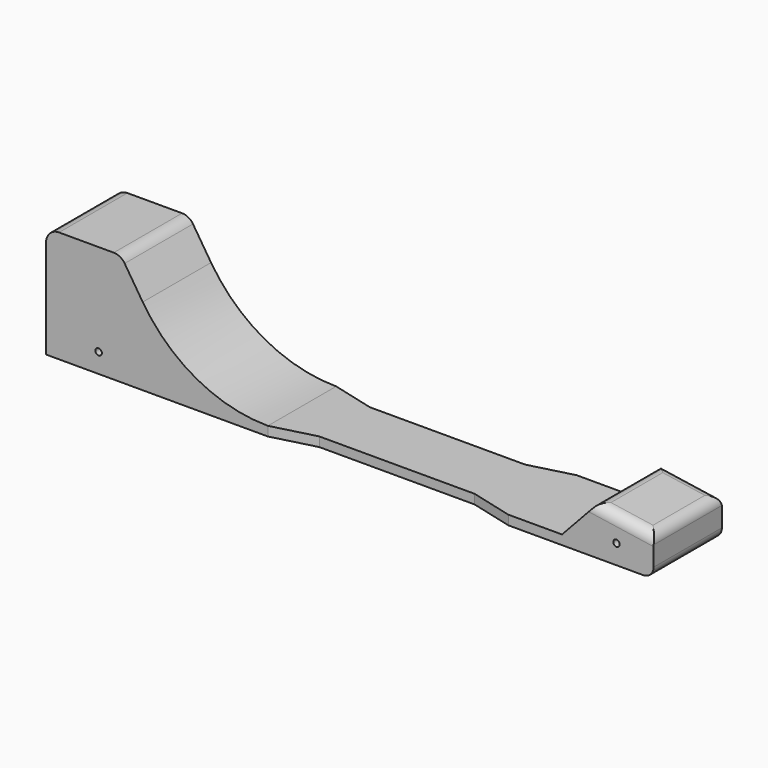
from build123d import *

# Parameters (mm, degrees)
F1_DEPTH  = 41.91
F2_R      = 9.525
F3_DEPTH  = 38.1
F6_DEPTH  = 41.91
F7_R      = 72.9800133434
F8_R      = 6.35
F4_R      = 1.5875
F9_DEPTH  = 128.27
F10_DEPTH = 90.678
F11_R     = 5.08
F13_DEPTH = 39.624


with BuildPart() as f1:
    # F0 (on Front) → F1 (new body)
    with BuildSketch(Plane.XZ):
        Polygon((0, 62.717492425), (0, 0), (301.1213292729, 0), (301.1213292729, 19.05), align=None)
    extrude(amount=-F1_DEPTH)

    # F2 (on face) → F3 (cut)
    with BuildSketch(Plane(origin=(0, 0, 0), x_dir=(0, -1, 0), z_dir=(-1, 0, 0))):
        with Locations((-20.955, 33.02)):
            Circle(F2_R)
    extrude(amount=-F3_DEPTH, mode=Mode.SUBTRACT)

    # F5 (on face) → F6 (cut)
    with BuildSketch(Plane.XZ):
        Polygon((36.6667471826, 54.8031888902), (68.9622256454, 4.6046015509), (253.1122256454, 4.6046015509), (270.404113194, 23.2097251733), (298.0381529682, 19.0862017092), (298.0381529682, 0), (301.1213292729, 0), (301.1213292729, 19.05), (0, 62.717492425), (0, 54.8031888902), align=None)
    extrude(amount=-F6_DEPTH, mode=Mode.SUBTRACT)

    # F7
    f7_edges = [f1.edges().sort_by_distance(p)[0] for p in [
        (68.962226, 20.955, 4.604602),
    ]]
    fillet(f7_edges, radius=F7_R)

    # F8
    f8_edges = [f1.edges().sort_by_distance(p)[0] for p in [
        (36.666747, 20.955, 54.803189),
        (0, 20.955, 54.803189),
    ]]
    fillet(f8_edges, radius=F8_R)

    # F4 (on face) → F9 (cut)
    with BuildSketch(Plane.XZ):
        with Locations((279.8462808132, 9.525)):
            Circle(F4_R)
    extrude(amount=-F9_DEPTH, mode=Mode.SUBTRACT)

    # F4 (on face) → F10 (cut)
    with BuildSketch(Plane.XZ):
        with Locations((279.8462808132, 9.525)):
            Circle(F4_R)
        with Locations((25.7700905204, 9.525)):
            Circle(F4_R)
    extrude(amount=-F10_DEPTH, mode=Mode.SUBTRACT)

    # F11
    f11_edges = [f1.edges().sort_by_distance(p)[0] for p in [
        (298.038153, 20.955, 19.086202),
        (270.404113, 20.955, 23.209725),
        (284.221133, 41.91, 21.147963),
        (284.221133, 0, 21.147963),
        (298.038153, 20.955, 0),
    ]]
    fillet(f11_edges, radius=F11_R)

    # F12 (on face) → F13 (cut)
    with BuildSketch(Plane.XY.offset(4.6046015509)):
        Polygon((108.789094354, 0), (226.7754729672, 0), (205.8822836606, 5.4408400638), (129.6822836606, 5.4408400638), align=None)
        Polygon((205.8822836606, 36.4691599362), (226.7754729672, 41.91), (108.789094354, 41.91), (129.6822836606, 36.4691599362), align=None)
    extrude(amount=-F13_DEPTH, mode=Mode.SUBTRACT)


solid = f1.part
